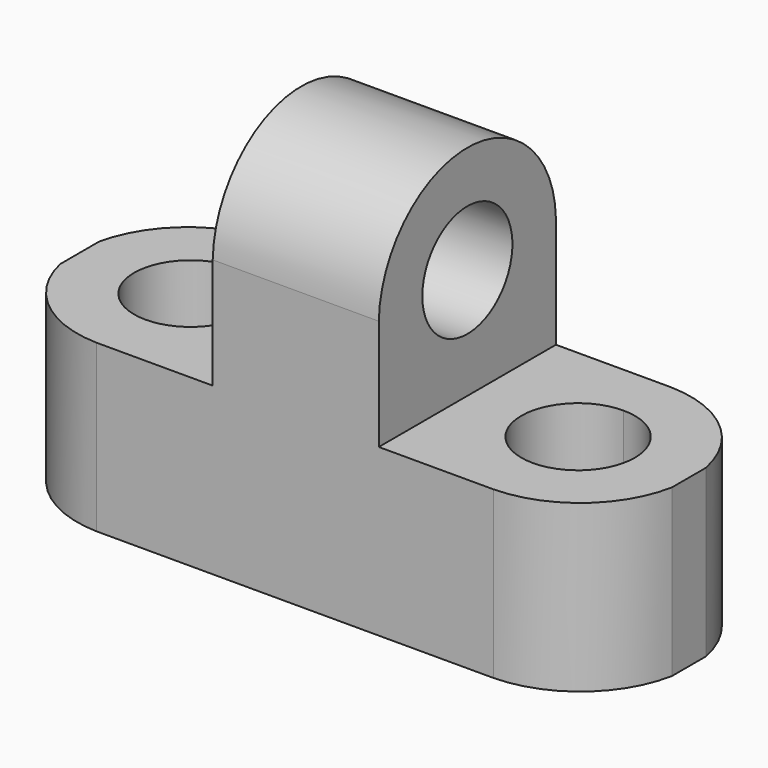
from build123d import *

# Parameters (mm, degrees)
F0_W     = 69.85
F0_H     = 44.45
F1_DEPTH = 25.4
F2_W     = 25.4
F2_H     = 25.4
F3_DEPTH = 25.4
F5_DEPTH = 25.4
F7_DEPTH = 25.4
F9_DEPTH = 44.451


with BuildPart() as f1:
    # F0 (on Front) → F1 (new body)
    with BuildSketch(Plane.XZ):
        with Locations((34.925, 22.225)):
            Rectangle(F0_W, F0_H)
    extrude(amount=F1_DEPTH)

    # F2 (on face) → F3 (cut)
    with BuildSketch(Plane.XY.offset(44.45)):
        with Locations((12.7, -12.7)):
            Rectangle(F2_W, F2_H)
        with Locations((57.15, -12.7)):
            Rectangle(F2_W, F2_H)
    extrude(amount=-F3_DEPTH, mode=Mode.SUBTRACT)

    # F4 (on face) → F5 (cut)
    with BuildSketch(Plane.XY.offset(19.05)):
        with BuildLine():
            ThreePointArc((19.1716522932, -12.7), (17.276149222, -8.123850778), (12.7, -6.2283477068))
            Line((12.7, -6.2283477068), (12.7, -19.1716522932))
            ThreePointArc((12.7, -19.1716522932), (17.276149222, -17.276149222), (19.1716522932, -12.7))
        make_face()
        with BuildLine():
            Line((12.7, -19.1716522932), (12.7, -6.2283477068))
            ThreePointArc((12.7, -6.2283477068), (6.2283477068, -12.7), (12.7, -19.1716522932))
        make_face()
        with BuildLine():
            ThreePointArc((0, -9.8877794327), (4.3409961707, -2.8703305999), (12.0772768095, 0))
            Line((12.0772768095, 0), (0, 0))
            Line((0, 0), (0, -9.8877794327))
        make_face()
        with BuildLine():
            ThreePointArc((12.0772768095, -25.4), (4.3409961707, -22.5296694001), (0, -15.5122205673))
            Line((0, -15.5122205673), (0, -25.4))
            Line((0, -25.4), (12.0772768095, -25.4))
        make_face()
    extrude(amount=-F5_DEPTH, mode=Mode.SUBTRACT)

    # F6 (on face) → F7 (cut)
    with BuildSketch(Plane.XY.offset(19.05)):
        with BuildLine():
            Line((57.15, -19.2128030993), (57.15, -6.1871969007))
            ThreePointArc((57.15, -6.1871969007), (50.6371969007, -12.7), (57.15, -19.2128030993))
        make_face()
        with BuildLine():
            ThreePointArc((63.6628030993, -12.7), (61.7552472361, -8.0947527639), (57.15, -6.1871969007))
            Line((57.15, -6.1871969007), (57.15, -19.2128030993))
            ThreePointArc((57.15, -19.2128030993), (61.7552472361, -17.3052472361), (63.6628030993, -12.7))
        make_face()
        with BuildLine():
            Line((69.85, 0), (57.6164578164, 0))
            ThreePointArc((57.6164578164, 0), (65.5484324783, -2.9699513679), (69.85, -10.2660702007))
            Line((69.85, -10.2660702007), (69.85, 0))
        make_face()
        with BuildLine():
            Line((69.85, -25.4), (69.85, -15.1339297993))
            ThreePointArc((69.85, -15.1339297993), (65.5484324783, -22.4300486321), (57.6164578164, -25.4))
            Line((57.6164578164, -25.4), (69.85, -25.4))
        make_face()
    extrude(amount=-F7_DEPTH, mode=Mode.SUBTRACT)

    # F8 (on face) → F9 (cut, through all)
    with BuildSketch(Plane.YZ.offset(44.45)):
        with BuildLine():
            Line((-19.156636307, 31.75), (-6.243363693, 31.75))
            ThreePointArc((-6.243363693, 31.75), (-12.7, 38.206636307), (-19.156636307, 31.75))
        make_face()
        with BuildLine():
            ThreePointArc((-19.156636307, 31.75), (-12.7, 25.293363693), (-6.243363693, 31.75))
            Line((-6.243363693, 31.75), (-19.156636307, 31.75))
        make_face()
        with BuildLine():
            ThreePointArc((-25.4, 31.75), (-12.7, 44.1159367091), (0, 31.75))
            Line((0, 31.75), (0, 44.45))
            Line((0, 44.45), (-25.4, 44.45))
            Line((-25.4, 44.45), (-25.4, 31.75))
        make_face()
    extrude(amount=-F9_DEPTH, mode=Mode.SUBTRACT)


solid = f1.part
